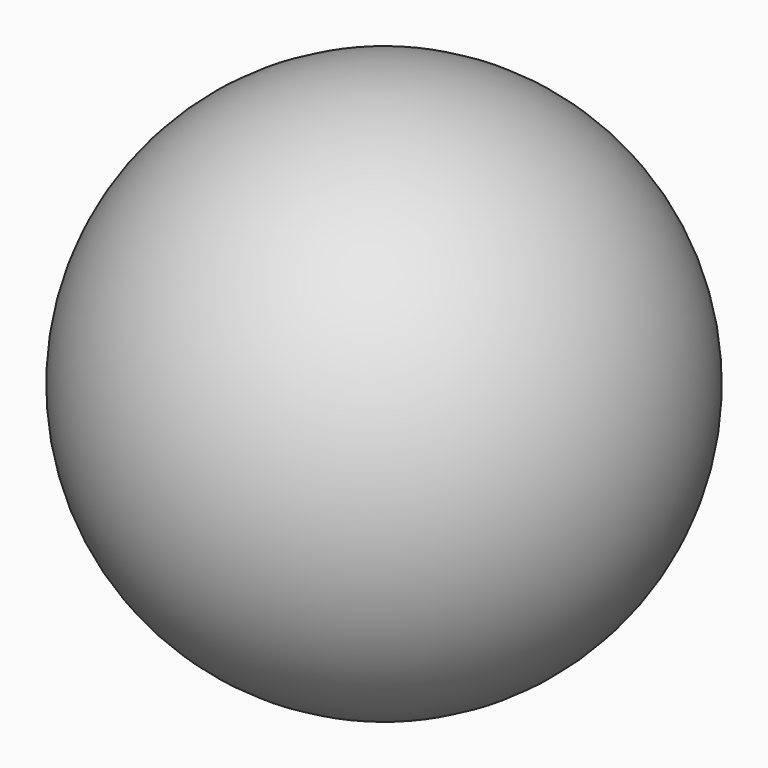
from build123d import *

# Parameters (mm, degrees)
F2_R          = 1.27
F3_DEPTH      = 25.4
F3_DEPTH_BACK = 25.4


with BuildPart() as f1:
    # F0 (on Front) → F1 (revolve)
    with BuildSketch(Plane.XZ):
        with BuildLine():
            Line((0, -20.32), (0, 20.32))
            ThreePointArc((0, 20.32), (-20.32, 0), (0, -20.32))
        make_face()
    revolve(axis=Axis((0, 0, 0), (0, 0, -1)))

    # F2 (on Front) → F3 (cut, two sides)
    with BuildSketch(Plane.XZ) as f3_sk:
        with Locations((0, 43.552317)):
            Circle(F2_R)
    extrude(amount=F3_DEPTH, mode=Mode.SUBTRACT)
    extrude(f3_sk.sketch, amount=-F3_DEPTH_BACK, mode=Mode.SUBTRACT)


solid = f1.part
